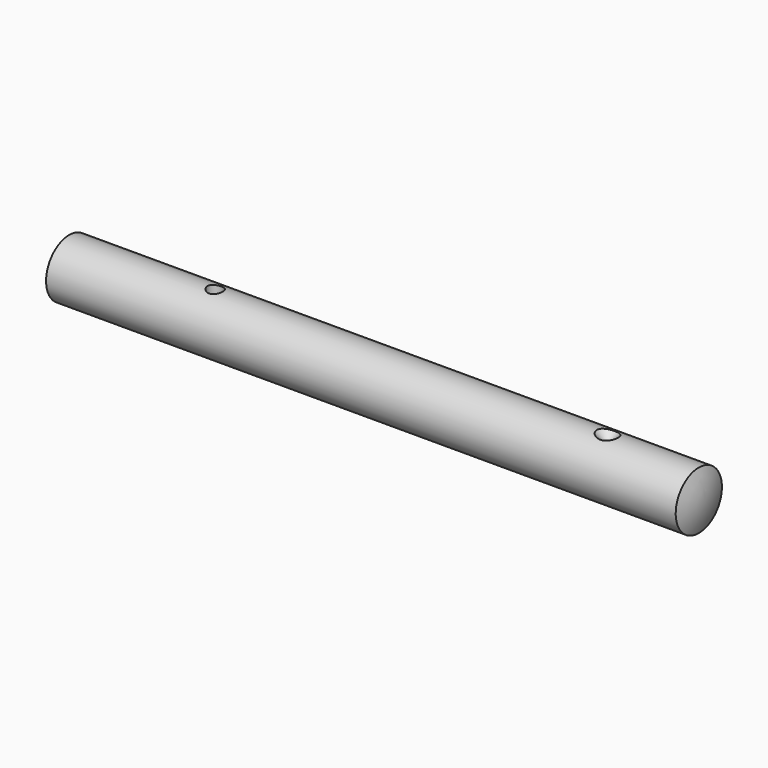
from build123d import *

# Parameters (mm, degrees)
F4_D     = 5
F4_DEPTH = 5
F4_TIP   = 1.5021515476


with BuildPart() as f1:
    # F0 (on Front) → F1 (revolve)
    with BuildSketch(Plane.XZ):
        with BuildLine():
            Line((209, 9.5), (2, 9.5))
            ThreePointArc((2, 9.5), (0.5054206912, 4.8541219597), (0, 0))
            Line((0, 0), (211, 0))
            ThreePointArc((211, 0), (210.4945793088, 4.8541219597), (209, 9.5))
        make_face()
    revolve(axis=Axis((104.3779142201, 0, 0), (1, 0, 0)))

    # F4
    with Locations(Plane.XY.offset(9.5)):
        with Locations((50, 0)):
            Hole(F4_D / 2, depth=F4_DEPTH)
            with Locations((0, 0, -(F4_DEPTH + F4_TIP / 2))):  # 118° drill point
                Cone(0, F4_D / 2, F4_TIP, mode=Mode.SUBTRACT)

    # F5 (on Front) → F6 (revolve, cut)
    with BuildSketch(Plane.XZ):
        Polygon((184.5, 11.5), (179, 11.5), (179, 6), align=None)
    revolve(axis=Axis((179, 0, -0.0294297934), (0, 0, -1)), mode=Mode.SUBTRACT)


solid = f1.part
